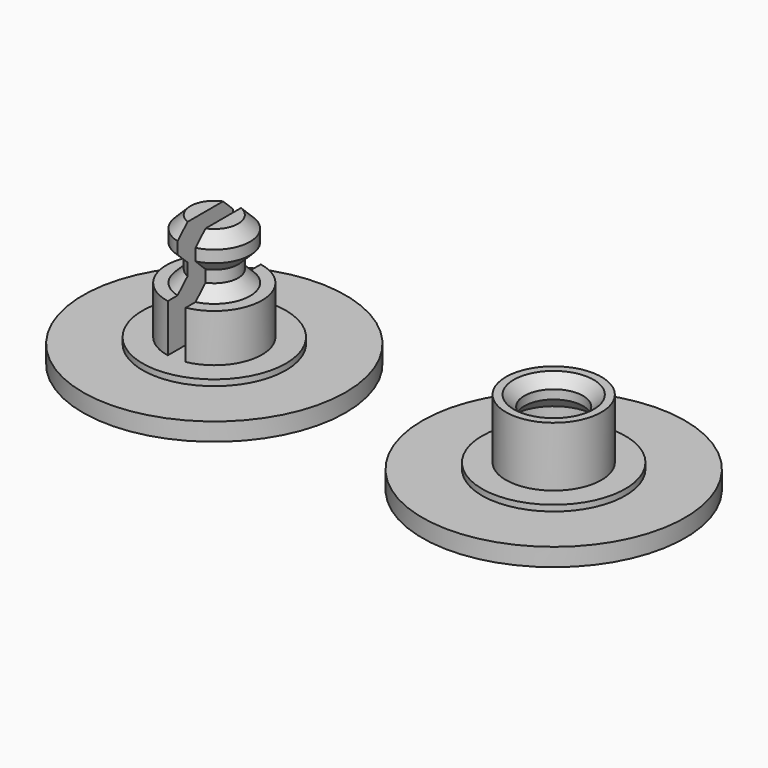
from build123d import *

# Parameters (mm, degrees)
F0_W     = 0.75
F0_H     = 9
F0_W_2   = 1
F0_H_2   = 4
F2_DEPTH = 12.5


with BuildPart() as f1:
    # F0 (on Front) → F1 (revolve)
    with BuildSketch(Plane.XZ):
        Polygon((-14.20681, 1.5), (-14.20681, 0), (-3.20681, 0), (-3.20681, 1.5), (-8.20681, 1.5), align=None)
        Polygon((-14.20681, 2), (-14.20681, 1.5), (-8.20681, 1.5), (-8.20681, 2), (-10.20681, 2), (-11.20681, 2), (-13.45681, 2), align=None)
        with Locations((-13.83181, 6.5)):
            Rectangle(F0_W, F0_H)
        with Locations((-10.70681, 4)):
            Rectangle(F0_W_2, F0_H_2)
        Polygon((-13.45681, 11), (-13.45681, 2), (-11.20681, 2), (-11.20681, 6), (-12.20681, 7), (-12.20681, 8), (-11.20681, 9), (-11.20681, 10), (-12.20681, 11), align=None)
        Polygon((-14.20681, 2), (-14.20681, 1.5), (-8.20681, 1.5), (-8.20681, 2), (-10.20681, 2), (-11.20681, 2), (-13.45681, 2), align=None)
        with Locations((-13.83181, 6.5)):
            Rectangle(F0_W, F0_H)
    revolve(axis=Axis((-14.20681, 0, 6.5), (0, 0, -1)))

    # F0 (on Front) → F2 (cut, symmetric)
    with BuildSketch(Plane.XZ):
        with Locations((-13.83181, 6.5)):
            Rectangle(F0_W, F0_H)
        with Locations((-14.58181, 6.5)):
            Rectangle(F0_W, F0_H)
    extrude(amount=F2_DEPTH, both=True, mode=Mode.SUBTRACT)


with BuildPart() as f3:
    # F0 (on Front) → F3 (revolve)
    with BuildSketch(Plane.XZ):
        Polygon((10.20681, 7), (10.20681, 2), (11.760858, 2), (11.760858, 2.021688), (10.711263, 3.071283), (10.711263, 4.319811), (11.749536, 5.358084), (11.749536, 6.109556), (10.859091, 7), align=None)
        Polygon((8.20681, 1.5), (14.20681, 1.5), (14.20681, 2), (12.20681, 2), (11.760858, 2), (10.20681, 2), (8.20681, 2), align=None)
        Polygon((3.20681, 0), (14.20681, 0), (14.20681, 1.5), (8.20681, 1.5), (3.20681, 1.5), align=None)
    revolve(axis=Axis((14.20681, 0, 4.5), (0, 0, -1)))


solid = Compound([f1.part, f3.part])
